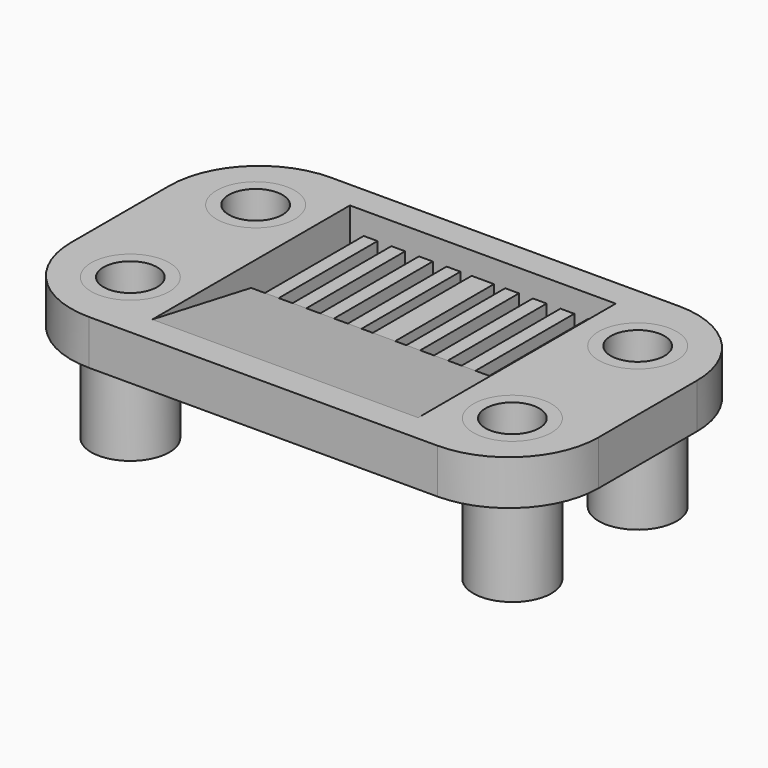
from build123d import *

# Parameters (mm, degrees)
F0_R     = 5.5372
F1_DEPTH = 6.35
F3_DEPTH = 18.8468
F0_W     = 1.5875
F0_H     = 17.5133
F0_W_2   = 1.958975
F4_DEPTH = 3.175
F0_R_2   = 3.81
F5_DEPTH = 13.716
F6_DEPTH = 6.35


with BuildPart() as f1:
    # F0 (on Top) → F1 (new body)
    with BuildSketch(Plane.XY):
        with BuildLine():
            ThreePointArc((37.4015, 8.71855), (33.6817561211, 17.6988061211), (24.7015, 21.41855))
            Line((24.7015, 21.41855), (0, 21.41855))
            Line((0, 21.41855), (0, 17.5133))
            Line((0, 17.5133), (1.5875, 17.5133))
            Line((1.5875, 17.5133), (3.175, 17.5133))
            Line((3.175, 17.5133), (5.133975, 17.5133))
            Line((5.133975, 17.5133), (7.09295, 17.5133))
            Line((7.09295, 17.5133), (9.051925, 17.5133))
            Line((9.051925, 17.5133), (11.0109, 17.5133))
            Line((11.0109, 17.5133), (12.969875, 17.5133))
            Line((12.969875, 17.5133), (14.92885, 17.5133))
            Line((14.92885, 17.5133), (16.887825, 17.5133))
            Line((16.887825, 17.5133), (18.8468, 17.5133))
            Line((18.8468, 17.5133), (18.8468, 0))
            Line((18.8468, 0), (18.8468, -17.5133))
            Line((18.8468, -17.5133), (0, -17.5133))
            Line((0, -17.5133), (0, -21.41855))
            Line((0, -21.41855), (24.7015, -21.41855))
            ThreePointArc((24.7015, -21.41855), (33.6817561211, -17.6988061211), (37.4015, -8.71855))
            Line((37.4015, -8.71855), (37.4015, 8.71855))
        make_face()
        with Locations((27.0891, -11.10615)):
            Circle(F0_R, mode=Mode.SUBTRACT)
        with Locations((27.0891, 11.10615)):
            Circle(F0_R, mode=Mode.SUBTRACT)
    extrude(amount=F1_DEPTH)

    # F2 (on face) → F3 (join)
    with BuildSketch(Plane(origin=(18.8468, 0, 0), x_dir=(0, -1, 0), z_dir=(-1, 0, 0))):
        Polygon((0, 3.175), (0, 0), (17.5133, 0), (17.5133, 6.35), align=None)
    extrude(amount=F3_DEPTH)

    # F0 (on Top) → F4 (join)
    with BuildSketch(Plane.XY):
        with Locations((0.79375, 8.75665)):
            Rectangle(F0_W, F0_H)
        with Locations((4.1544875, 8.75665)):
            Rectangle(F0_W_2, F0_H)
        with Locations((8.0724375, 8.75665)):
            Rectangle(F0_W_2, F0_H)
        with Locations((11.9903875, 8.75665)):
            Rectangle(F0_W_2, F0_H)
        with Locations((15.9083375, 8.75665)):
            Rectangle(F0_W_2, F0_H)
    extrude(amount=F4_DEPTH)

    # F0 (on Top) → F5 (join)
    with BuildSketch(Plane.XY):
        with Locations((27.0891, 11.10615)):
            Circle(F0_R)
        with Locations((27.0891, 11.10615)):
            Circle(F0_R_2, mode=Mode.SUBTRACT)
        with Locations((27.0891, -11.10615)):
            Circle(F0_R)
        with Locations((27.0891, -11.10615)):
            Circle(F0_R_2, mode=Mode.SUBTRACT)
    extrude(amount=-F5_DEPTH)


with BuildPart() as f6:
    # F6 (new): a face of the model
    f6_faces = [f1.part.faces().sort_by_distance(p)[0] for p in [
        (21.7085156668, 11.10615, 0),
    ]]
    extrude(f6_faces, amount=F6_DEPTH)


with BuildPart() as f6b:
    # F6#2 (new): a face of the model
    f6_2_faces = [f1.part.faces().sort_by_distance(p)[0] for p in [
        (21.7085156668, -11.10615, 0),
    ]]
    extrude(f6_2_faces, amount=F6_DEPTH)


with BuildPart() as f1_1:
    add(f1.part)

    # F7: F1, F6, F6b across plane
    add(f1.part.mirror(Plane.YZ))
    add(f6.part.mirror(Plane.YZ))
    add(f6b.part.mirror(Plane.YZ))


solid = Compound([f6.part, f6b.part, f1_1.part])
